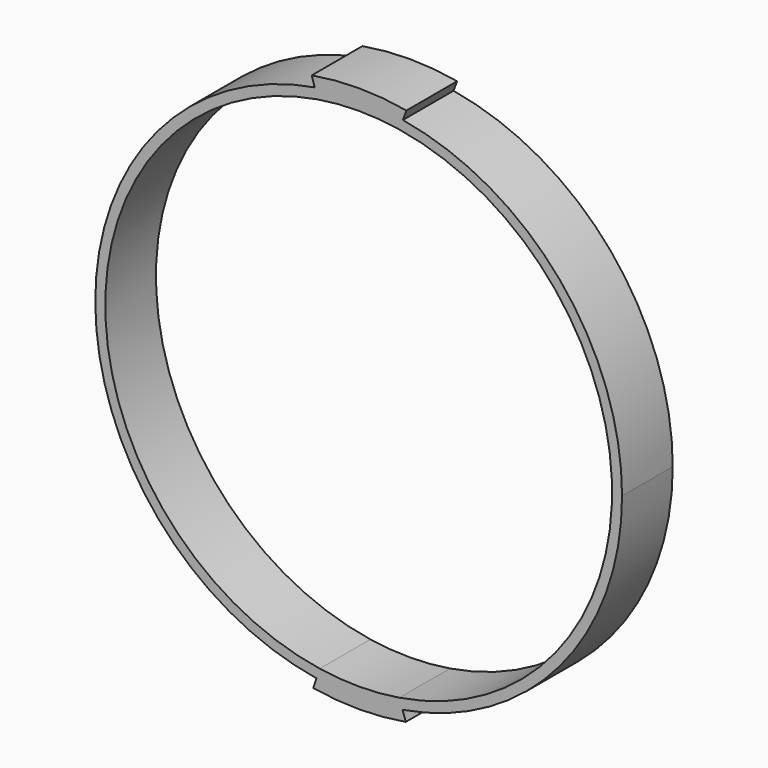
from build123d import *

# Parameters (mm, degrees)
F1_DEPTH = 19


with BuildPart() as f1:
    # F0 (on Front) → F1 (new body)
    with BuildSketch(Plane.XZ):
        with BuildLine():
            ThreePointArc((12.1915086519, 75.0157791187), (57.8902179023, 49.2414730814), (76, 0))
            ThreePointArc((76, 0), (57.8968937502, -49.2336236131), (12.211850156, -75.0124704017))
            Line((12.211850156, -75.0124704017), (13.1777311492, -77.8931794303))
            ThreePointArc((13.1777311492, -77.8931794303), (60.3408682436, -50.9899952893), (79, 0))
            ThreePointArc((79, 0), (60.3689954978, 50.9566912445), (13.2636865167, 77.8785889702))
            Line((13.2636865167, 77.8785889702), (12.1915086519, 75.0157791187))
        make_face()
        with BuildLine():
            ThreePointArc((-12.3025251184, 74.997652468), (-0.0562432914, 75.9999791888), (12.1915086519, 75.0157791187))
            Line((12.1915086519, 75.0157791187), (13.2636865167, 77.8785889702))
            ThreePointArc((13.2636865167, 77.8785889702), (0.0399063848, 78.9999899208), (-13.1849999366, 77.8919493701))
            Line((-13.1849999366, 77.8919493701), (-12.3025251184, 74.997652468))
        make_face()
        with BuildLine():
            Line((13.1777311492, -77.8931794303), (12.211850156, -75.0124704017))
            ThreePointArc((12.211850156, -75.0124704017), (0.2707710363, -75.9995176501), (-11.6770381515, -75.0975817188))
            Line((-11.6770381515, -75.0975817188), (-12.6618185825, -77.9787044659))
            ThreePointArc((-12.6618185825, -77.9787044659), (0.2614767237, -78.9995672768), (13.1777311492, -77.8931794303))
        make_face()
        with BuildLine():
            ThreePointArc((-11.6770381515, -75.0975817188), (-75.9993400961, -0.3167095676), (-12.3025251184, 74.997652468))
            Line((-12.3025251184, 74.997652468), (-13.1849999366, 77.8919493701))
            ThreePointArc((-13.1849999366, 77.8919493701), (-78.9995549906, -0.2651627688), (-12.6618185825, -77.9787044659))
            Line((-12.6618185825, -77.9787044659), (-11.6770381515, -75.0975817188))
        make_face()
        with BuildLine():
            ThreePointArc((-13.1849999366, 77.8919493701), (0.0399063848, 78.9999899208), (13.2636865167, 77.8785889702))
            Line((13.2636865167, 77.8785889702), (14.334362768, 80.7373893808))
            ThreePointArc((14.334362768, 80.7373893808), (0.1357745434, 81.9998875931), (-14.0669166774, 80.7844159179))
            Line((-14.0669166774, 80.7844159179), (-13.1849999366, 77.8919493701))
        make_face()
        with BuildLine():
            Line((14.1427048087, -80.7711823653), (13.1777311492, -77.8931794303))
            ThreePointArc((13.1777311492, -77.8931794303), (0.2614767237, -78.9995672768), (-12.6618185825, -77.9787044659))
            Line((-12.6618185825, -77.9787044659), (-13.6455172747, -80.8566624237))
            ThreePointArc((-13.6455172747, -80.8566624237), (0.2522410971, -81.9996120383), (14.1427048087, -80.7711823653))
        make_face()
    extrude(amount=F1_DEPTH)


solid = f1.part
